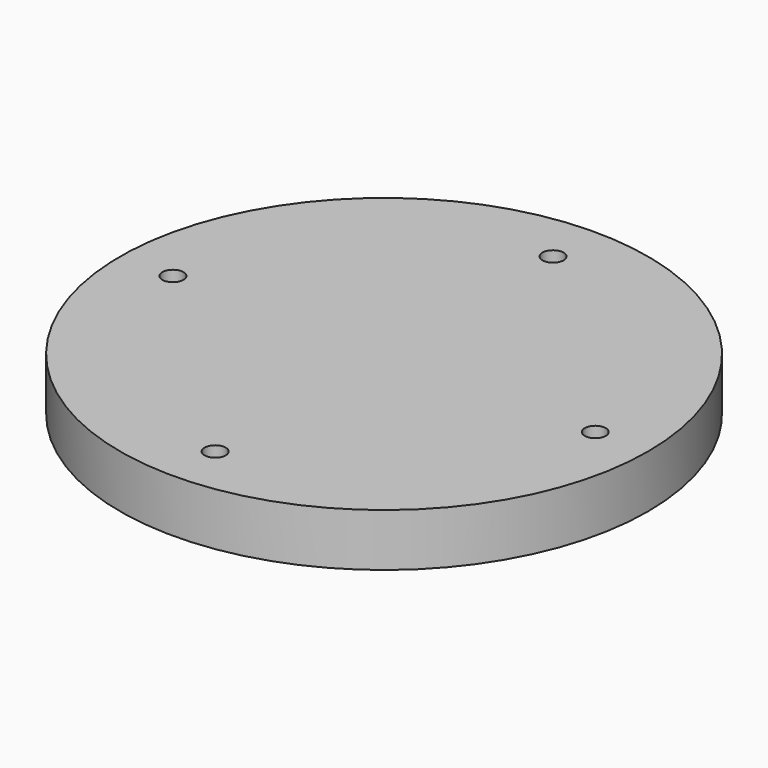
from build123d import *

# Parameters (mm, degrees)
F0_R     = 25
F1_DEPTH = 5
F2_R     = 1
F3_DEPTH = 5.001


with BuildPart() as f1:
    # F0 (on Top) → F1 (new body)
    with BuildSketch(Plane.XY):
        Circle(F0_R)
    extrude(amount=F1_DEPTH)

    # F2 (on face) → F3 (cut, through all)
    with BuildSketch(Plane.XY.offset(5)):
        with Locations((0, 20)):
            Circle(F2_R)
        with Locations((-20, 0)):
            Circle(F2_R)
        with Locations((0, -20)):
            Circle(F2_R)
        with Locations((20, 0)):
            Circle(F2_R)
    extrude(amount=-F3_DEPTH, mode=Mode.SUBTRACT)


solid = f1.part
